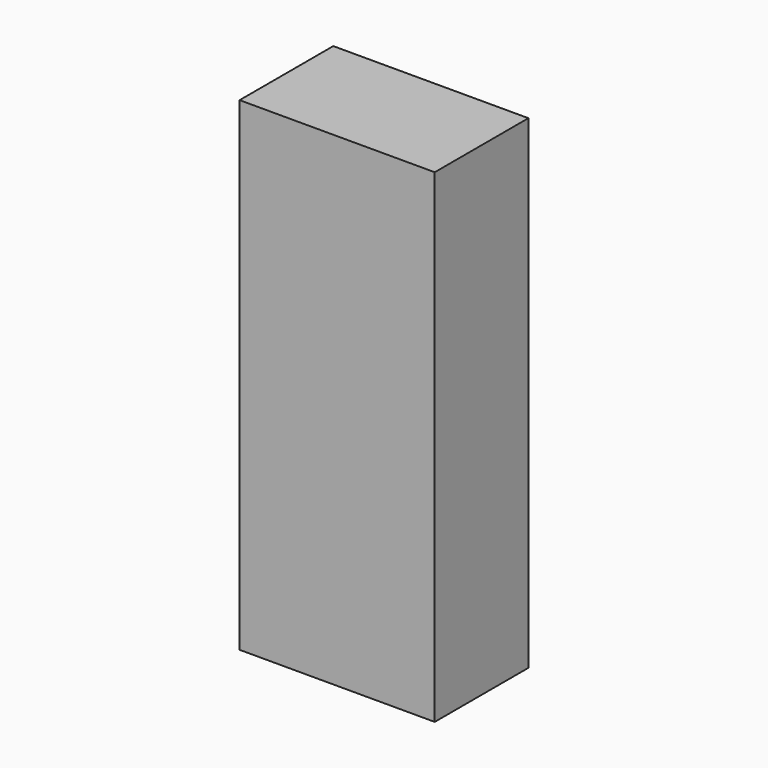
from build123d import *

# Parameters (mm, degrees)
F1_START = 3.81
F0_W     = 19.05
F0_H     = 47.244
F1_DEPTH = 11.43


with BuildPart() as f1:
    # F0 (on Front) → F1 (new body)
    with BuildSketch(Plane.XZ.offset(F1_START)):
        Rectangle(F0_W, F0_H)
    extrude(amount=F1_DEPTH)


solid = f1.part
